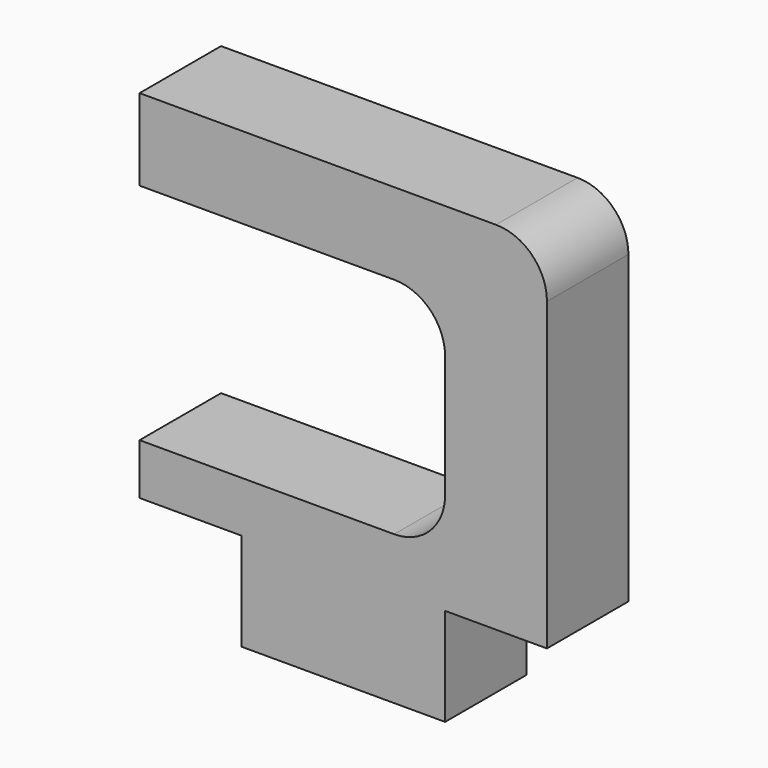
from build123d import *

# Parameters (mm, degrees)
F1_DEPTH = 6.35


with BuildPart() as f1:
    # F0 (on Front) → F1 (new body)
    with BuildSketch(Plane.XZ):
        with BuildLine():
            Line((0, 0), (0, -6.096))
            Line((0, -6.096), (12.7, -6.096))
            Line((12.7, -6.096), (12.7, 0))
            Line((12.7, 0), (19.05, 0))
            Line((19.05, 0), (19.05, 3.175))
            Line((19.05, 3.175), (19.05, 19.05))
            ThreePointArc((19.05, 19.05), (18.120064, 21.295064), (15.875, 22.225))
            Line((15.875, 22.225), (-6.35, 22.225))
            Line((-6.35, 22.225), (-6.35, 17.145))
            Line((-6.35, 17.145), (9.525, 17.145))
            ThreePointArc((9.525, 17.145), (11.770064, 16.215064), (12.7, 13.97))
            Line((12.7, 13.97), (12.7, 6.35))
            ThreePointArc((12.7, 6.35), (11.770064, 4.104936), (9.525, 3.175))
            Line((9.525, 3.175), (-6.35, 3.175))
            Line((-6.35, 3.175), (-6.35, 0))
            Line((-6.35, 0), (0, 0))
        make_face()
    extrude(amount=F1_DEPTH)


solid = f1.part
